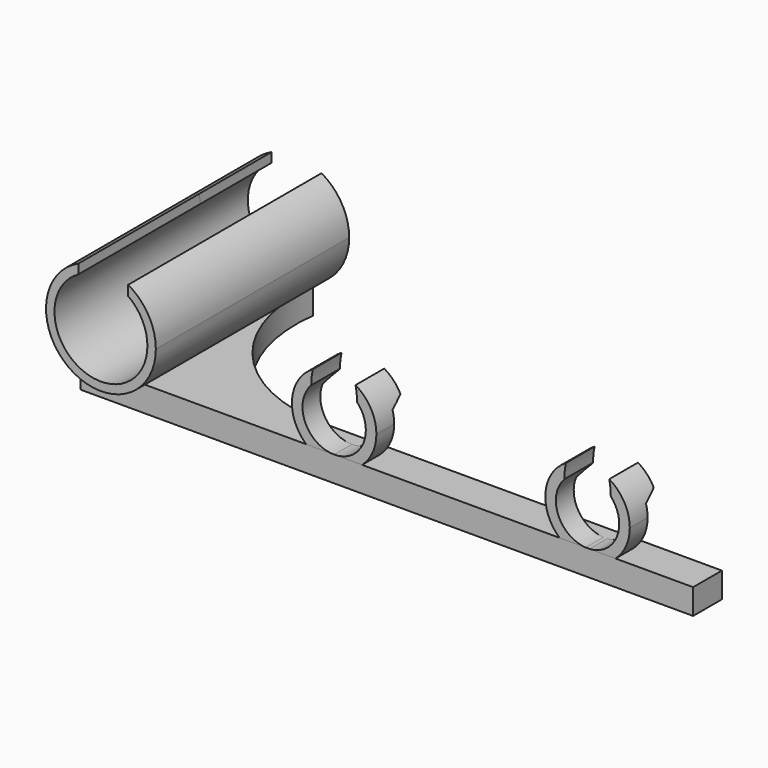
from build123d import *

# Parameters (mm, degrees)
F1_DEPTH      = 5
F1_DEPTH_BACK = 1
F3_DEPTH      = 35.944447
F3_DEPTH_BACK = 21.279896
F5_DEPTH      = 8.5
F7_DEPTH      = 102.259973


with BuildPart() as f1:
    # F0 (on Top) → F1 (new body, two sides)
    with BuildSketch(Plane.XY) as f1_sk:
        with BuildLine():
            Line((1.003299, 18.174614), (-13.996701, 18.174614))
            Line((-13.996701, 18.174614), (-13.996701, -31.825386))
            Line((-13.996701, -31.825386), (131.003299, -31.825386))
            Line((131.003299, -31.825386), (131.003299, -23.307258))
            Line((131.003299, -23.307258), (37.51162, -23.307258))
            ThreePointArc((37.51162, -23.307258), (9.881912, -10.817771), (1.003299, 18.174614))
        make_face()
    extrude(amount=F1_DEPTH)
    extrude(f1_sk.sketch, amount=-F1_DEPTH_BACK)

    # F2 (on Front) → F3 (join, two sides)
    with BuildSketch(Plane.XZ) as f3_sk:
        with BuildLine():
            ThreePointArc((0.449709, 24.967801), (3.853817, 21.046216), (5.07958, 16))
            ThreePointArc((5.07958, 16), (-11.49771, 6.518765), (-11.264752, 25.614474))
            add(Edge.make_bspline(
                [(-11.28924, 27.839585), (-11.329412, 26.724718), (-11.264752, 25.614474)],
                knots=[1.498789, 1.498789, 1.498789, 1.686859, 1.686859, 1.686859], degree=2, weights=[1, 0.995582, 1]))
            ThreePointArc((-11.28924, 27.839585), (-12.963335, 5.073091), (7.07958, 16))
            ThreePointArc((7.07958, 16), (5.32486, 22.522553), (0.534397, 27.284296))
            add(Edge.make_bspline(
                [(0.449709, 24.967801), (0.549024, 26.117702), (0.534397, 27.284296)],
                knots=[4.541188, 4.541188, 4.541188, 4.737483, 4.737483, 4.737483], degree=2, weights=[1, 0.995187, 1]))
        make_face()
    extrude(amount=F3_DEPTH)
    extrude(f3_sk.sketch, amount=-F3_DEPTH_BACK)


with BuildPart() as f5:
    # F4 (on face) → F5 (new body)
    with BuildSketch(Plane.XZ.offset(31.825386)):
        with BuildLine():
            Line((39.38892, 5), (46.003299, 5))
            ThreePointArc((46.003299, 5), (39.109089, 9.547056), (40.574442, 17.674699))
            add(Edge.make_bspline(
                [(40.942947, 21.125128), (40.591384, 19.460524), (40.574442, 17.674699)],
                knots=[1.199834, 1.199834, 1.199834, 1.553326, 1.553326, 1.553326], degree=2, weights=[1, 0.984421, 1]))
            ThreePointArc((40.942947, 21.125128), (36.049416, 13.459285), (39.38892, 5))
        make_face()
        with BuildLine():
            ThreePointArc((51.432156, 17.674699), (52.966288, 15.286895), (53.503299, 12.5))
            ThreePointArc((53.503299, 12.5), (51.3066, 7.196699), (46.003299, 5))
            Line((46.003299, 5), (52.617677, 5))
            ThreePointArc((52.617677, 5), (55.117677, 8.385622), (56.003299, 12.5))
            ThreePointArc((56.003299, 12.5), (54.680957, 17.469732), (51.06365, 21.125128))
            add(Edge.make_bspline(
                [(51.432156, 17.674699), (51.415213, 19.460524), (51.06365, 21.125128)],
                knots=[4.72986, 4.72986, 4.72986, 5.083352, 5.083352, 5.083352], degree=2, weights=[1, 0.984421, 1]))
        make_face()
        with BuildLine():
            Line((106.468237, 5), (112.633998, 5))
            ThreePointArc((112.633998, 5), (115.122152, 8.381125), (116.003299, 12.485575))
            ThreePointArc((116.003299, 12.485575), (114.703426, 17.415868), (111.141741, 21.06441))
            add(Edge.make_bspline(
                [(111.505966, 17.581716), (111.496438, 19.382666), (111.141741, 21.06441)],
                knots=[4.722003, 4.722003, 4.722003, 5.078389, 5.078389, 5.078389], degree=2, weights=[1, 0.984166, 1]))
            ThreePointArc((111.505966, 17.581716), (112.986135, 15.222361), (113.503299, 12.485575))
            ThreePointArc((113.503299, 12.485575), (111.468509, 7.349284), (106.468237, 5))
        make_face()
        with BuildLine():
            ThreePointArc((100.864856, 21.06441), (96.046166, 13.410514), (99.3726, 5))
            Line((99.3726, 5), (105.53836, 5))
            ThreePointArc((105.53836, 5), (99.040686, 9.69774), (100.500631, 17.581716))
            add(Edge.make_bspline(
                [(100.864856, 21.06441), (100.51016, 19.382666), (100.500631, 17.581716)],
                knots=[1.204796, 1.204796, 1.204796, 1.561182, 1.561182, 1.561182], degree=2, weights=[1, 0.984166, 1]))
        make_face()
    extrude(amount=-F5_DEPTH)

    # F6 (on face) → F7 (cut)
    with BuildSketch(Plane.YZ.offset(131.003299)):
        Polygon((-26.547706, 15.305716), (-26.547706, 5), (-23.307258, 5), (-22.667259, 5), (-22.667259, 17.438939), align=None)
    extrude(amount=-F7_DEPTH, mode=Mode.SUBTRACT)


solid = Compound([f1.part, f5.part])
